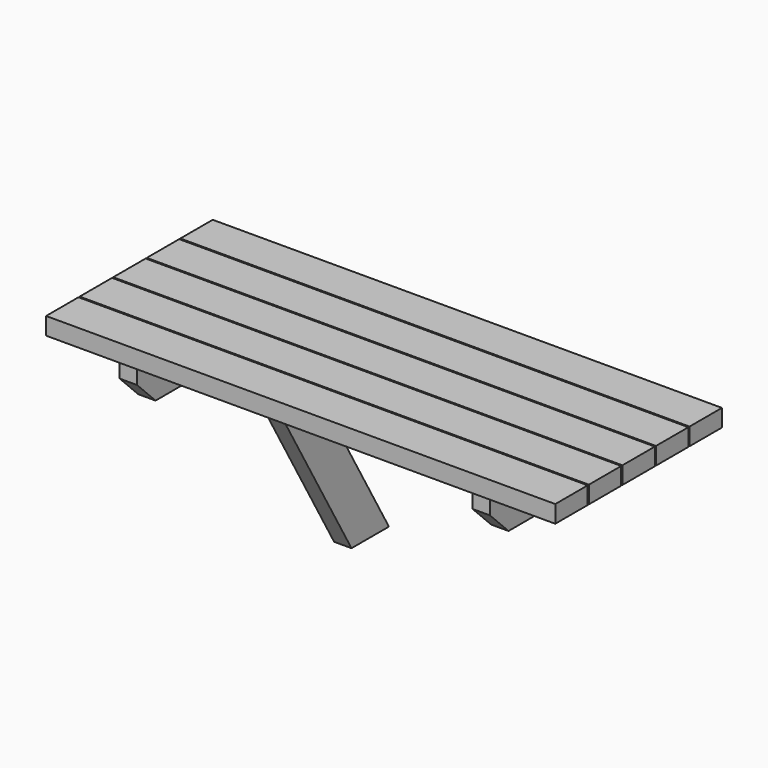
from build123d import *

# Parameters (mm, degrees)
F0_W      = 1117.6
F0_H      = 88.9
F1_DEPTH  = 38.1
F6_W      = 431.8
F6_H      = 88.9
F7_DEPTH  = 38.1
F8_SIZE   = 50.8
F12_DEPTH = 38.1


with BuildPart() as f1:
    # F0 (on Top) → F1 (new body)
    with BuildSketch(Plane.XY):
        with Locations((381.082802, 12.123089)):
            Rectangle(F0_W, F0_H)
    extrude(amount=F1_DEPTH)


with BuildPart() as f2_1:
    # F2: copy of F1
    add(f1.part.moved(Location((0, 92.075, 0))))


with BuildPart() as f3_1:
    # F3: copy of F2_1
    add(f2_1.part.moved(Location((0, 92.075, 0))))


with BuildPart() as f4_1:
    # F4: copy of F1
    add(f1.part.moved(Location((0, -92.075, 0))))


with BuildPart() as f5_1:
    # F5: copy of F4_1
    add(f4_1.part.moved(Location((0, -92.075, 0))))


with BuildPart() as f7:
    # F6 (on Right) → F7 (new body)
    with BuildSketch(Plane.YZ):
        with Locations((10.960683, -44.45)):
            Rectangle(F6_W, F6_H)
    extrude(amount=F7_DEPTH)

    # F8
    f8_edges = [f7.edges().sort_by_distance(p)[0] for p in [
        (19.05, 226.860683, -88.9),
        (19.05, -204.939317, -88.9),
    ]]
    chamfer(f8_edges, length=F8_SIZE)


with BuildPart() as f7_1:
    # F9: moved
    add(f7.part.moved(Location((-25.4, 0, 0))))


with BuildPart() as f10_1:
    # F10: copy of F7
    add(f7_1.part.moved(Location((774.7, 0, 0))))


with BuildPart() as f12:
    # F11 (on Right) → F12 (new body)
    with BuildSketch(Plane.YZ):
        Polygon((378.138831, -571.5), (48.183152, 0), (-54.469726, 0), (275.485953, -571.5), align=None)
    extrude(amount=F12_DEPTH)


with BuildPart() as f13_1:
    # F13: copy of F12
    add(f12.part.moved(Location((0, 76.2, 0))))


with BuildPart() as f15_1:
    # F15: copy of F13_1
    add(f13_1.part.moved(Location((0, -127, 0))))


solid = Compound([f1.part, f2_1.part, f3_1.part, f4_1.part, f5_1.part, f7_1.part, f10_1.part, f13_1.part])
